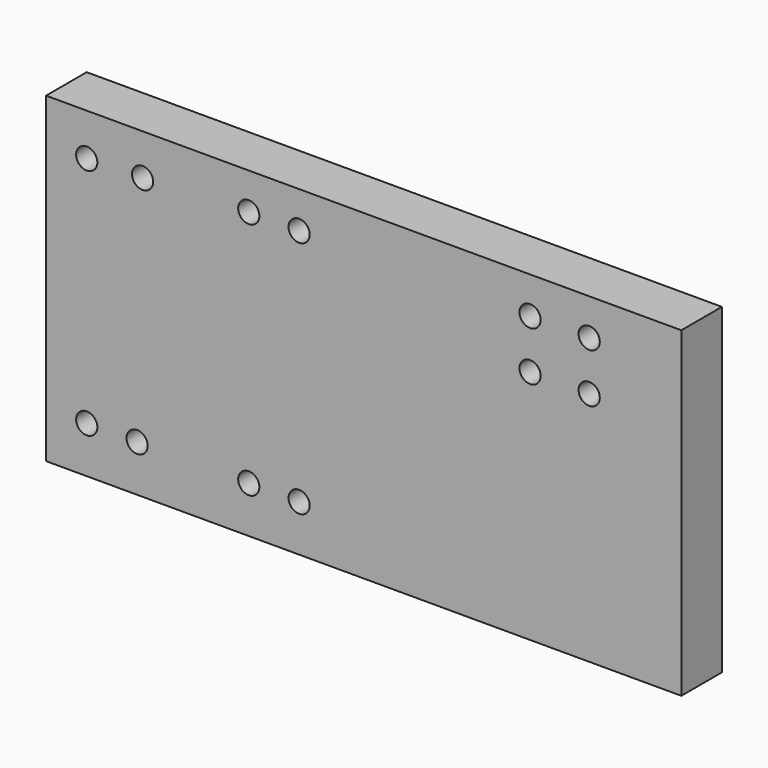
from build123d import *

# Parameters (mm, degrees)
F0_W     = 150.0124
F0_H     = 75.9968
F0_R     = 2.5019
F1_DEPTH = 11.9888


with BuildPart() as f1:
    # F0 (on Front) → F1 (new body)
    with BuildSketch(Plane.XZ):
        Rectangle(F0_W, F0_H)
        with Locations((-65.403976, -27.016154)):
            Circle(F0_R, mode=Mode.SUBTRACT)
        with Locations((-53.512342, -27.016154)):
            Circle(F0_R, mode=Mode.SUBTRACT)
        with Locations((-27.143942, -27.016154)):
            Circle(F0_R, mode=Mode.SUBTRACT)
        with Locations((-15.252311, -27.016154)):
            Circle(F0_R, mode=Mode.SUBTRACT)
        with Locations((-65.403976, 28.047271)):
            Circle(F0_R, mode=Mode.SUBTRACT)
        with Locations((-52.219775, 28.305786)):
            Circle(F0_R, mode=Mode.SUBTRACT)
        with Locations((-27.143942, 29.339839)):
            Circle(F0_R, mode=Mode.SUBTRACT)
        with Locations((-15.252311, 29.339839)):
            Circle(F0_R, mode=Mode.SUBTRACT)
        with Locations((39.29409, 17.706722)):
            Circle(F0_R, mode=Mode.SUBTRACT)
        with Locations((53.253829, 17.706722)):
            Circle(F0_R, mode=Mode.SUBTRACT)
        with Locations((39.29409, 29.339839)):
            Circle(F0_R, mode=Mode.SUBTRACT)
        with Locations((53.253829, 29.339839)):
            Circle(F0_R, mode=Mode.SUBTRACT)
    extrude(amount=F1_DEPTH)


solid = f1.part
